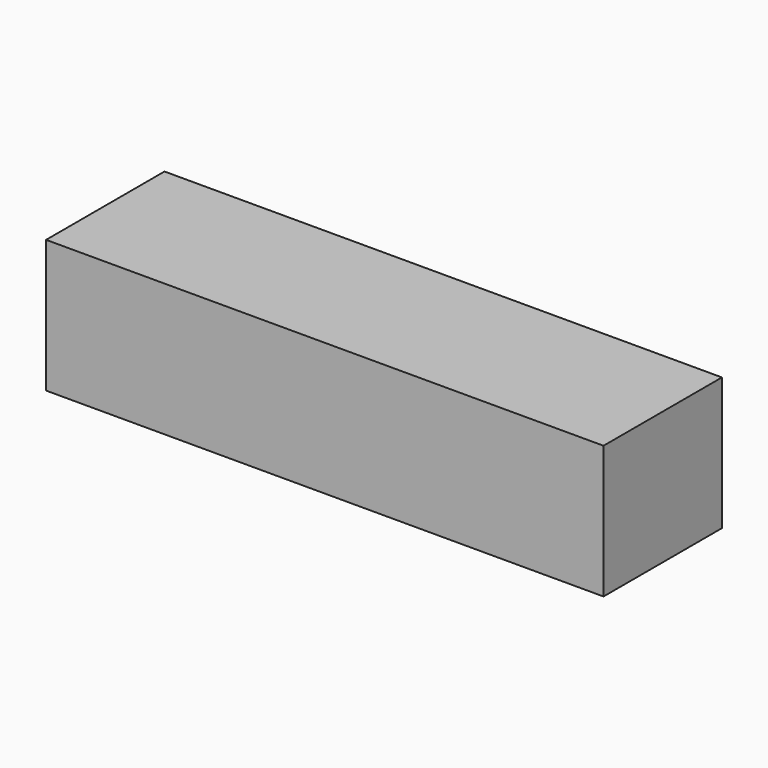
from build123d import *

# Parameters (mm, degrees)
F1_W     = 104.992821
F1_H     = 27.875396
F2_DEPTH = 25


with BuildPart() as f2:
    # F1 (on offset) → F2 (new body)
    with BuildSketch(Plane.XY):
        with Locations((-6.286603, -8.094814)):
            Rectangle(F1_W, F1_H)
    extrude(amount=F2_DEPTH)


solid = f2.part
